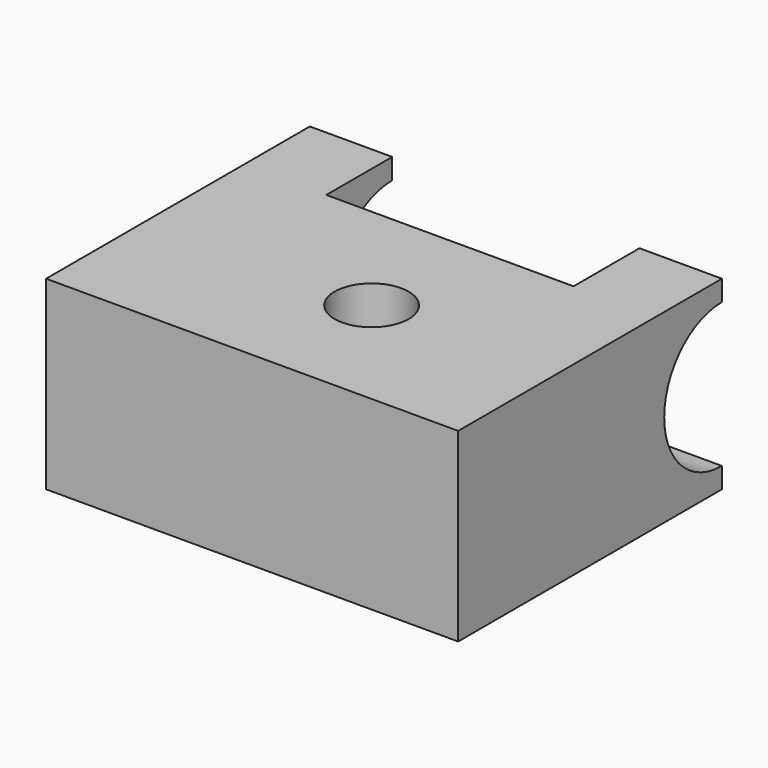
from build123d import *

# Parameters (mm, degrees)
F1_DEPTH = 57.15
F2_R     = 22.225
F3_DEPTH = 127
F4_R     = 11.43
F5_DEPTH = 76.2


with BuildPart() as f1:
    # F0 (on Top) → F1 (new body)
    with BuildSketch(Plane.XY):
        Polygon((0, 101.6), (0, 0), (127, 0), (127, 101.6), (101.6, 101.6), (101.6, 76.2), (25.4, 76.2), (25.4, 101.6), align=None)
    extrude(amount=F1_DEPTH)

    # F2 (on face) → F3 (cut)
    with BuildSketch(Plane.YZ.offset(127)):
        with Locations((101.6, 28.575)):
            Circle(F2_R)
    extrude(amount=-F3_DEPTH, mode=Mode.SUBTRACT)

    # F4 (on face) → F5 (cut)
    with BuildSketch(Plane.XY.offset(57.15)):
        with Locations((69.85, 38.1)):
            Circle(F4_R)
    extrude(amount=-F5_DEPTH, mode=Mode.SUBTRACT)


solid = f1.part
